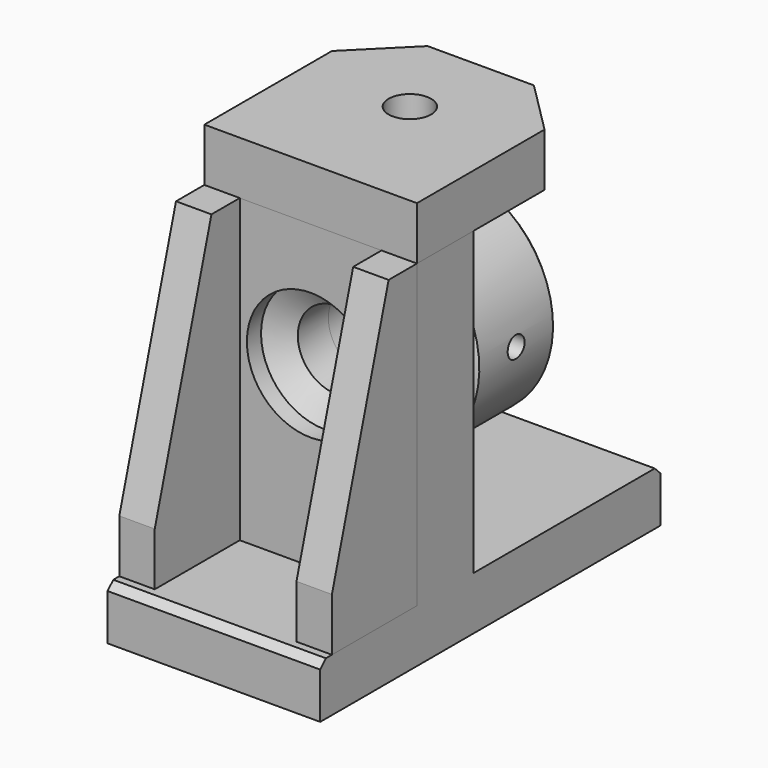
from build123d import *

# Parameters (mm, degrees)
F2_SIZE   = 2
F5_D      = 6
F5_DEPTH  = 12
F5_START  = 0.150377
F5_TIP    = 1.8025818571
F8_D      = 6
F8_DEPTH  = 12
F8_START  = 0.150377
F8_TIP    = 1.8025818571
F11_D     = 6
F11_DEPTH = 12
F11_START = 0.150377
F11_TIP   = 1.8025818571
F14_D     = 6
F14_DEPTH = 12
F14_START = 0.150377
F14_TIP   = 1.8025818571
F17_DEPTH = 15
F18_SIZE  = 15
F20_D     = 12
F20_DEPTH = 15
F20_TIP   = 3.6051637142
F22_W     = 60
F22_H     = 85
F23_DEPTH = 20
F25_DEPTH = 60
F27_D     = 36
F27_DEPTH = 5
F27_TIP   = 10.8154911425
F29_D     = 22
F29_DEPTH = 100
F29_TIP   = 6.6094668093
F30_SIZE  = 2
F32_DEPTH = 10
F34_DEPTH = 10


with BuildPart() as f1:
    # F0 (on Right) → F1 (revolve)
    with BuildSketch(Plane.YZ):
        Polygon((0, 30), (0, 11), (40, 11), (40, 18), (30, 18), (30, 30), align=None)
    revolve(axis=Axis((0, 0.3758966923, 0), (0, 1, 0)))

    # F2
    f2_edges = [f1.edges().sort_by_distance(p)[0] for p in [
        (0, 30, -30),
        (0, 0, -30),
        (0, 40, -18),
    ]]
    chamfer(f2_edges, length=F2_SIZE)

    # F5
    # its depths count from where the whole tool has entered the part; down to there all is cleared
    with Locations(Plane.YZ.offset(30).offset(-F5_START)):
        with Locations((15, 0)):
            Hole(F5_D / 2, depth=F5_DEPTH)
            with Locations((0, 0, -(F5_DEPTH + F5_TIP / 2))):  # 118° drill point
                Cone(0, F5_D / 2, F5_TIP, mode=Mode.SUBTRACT)

    # F8
    # its depths count from where the whole tool has entered the part; down to there all is cleared
    with Locations(Plane.XY.offset(30).offset(-F8_START)):
        with Locations((0, 15)):
            Hole(F8_D / 2, depth=F8_DEPTH)
            with Locations((0, 0, -(F8_DEPTH + F8_TIP / 2))):  # 118° drill point
                Cone(0, F8_D / 2, F8_TIP, mode=Mode.SUBTRACT)

    # F11
    # its depths count from where the whole tool has entered the part; down to there all is cleared
    with Locations(Plane(origin=(0, 0, -30), x_dir=(1, 0, 0), z_dir=(0, 0, -1)).offset(-F11_START)):
        with Locations((0, -15)):
            Hole(F11_D / 2, depth=F11_DEPTH)
            with Locations((0, 0, -(F11_DEPTH + F11_TIP / 2))):  # 118° drill point
                Cone(0, F11_D / 2, F11_TIP, mode=Mode.SUBTRACT)

    # F14
    # its depths count from where the whole tool has entered the part; down to there all is cleared
    with Locations(Plane(origin=(-30, 0, 0), x_dir=(0, 1, 0), z_dir=(-1, 0, 0)).offset(-F14_START)):
        with Locations((15, 0)):
            Hole(F14_D / 2, depth=F14_DEPTH)
            with Locations((0, 0, -(F14_DEPTH + F14_TIP / 2))):  # 118° drill point
                Cone(0, F14_D / 2, F14_TIP, mode=Mode.SUBTRACT)


with BuildPart() as f17:
    # F16 (on offset) → F17 (new body)
    with BuildSketch(Plane.XY.offset(35)):
        Polygon((30, -20), (30, 0), (30, 30), (30, 40), (-30, 40), (-30, 30), (-30, 0), (-30, -20), align=None)
    extrude(amount=F17_DEPTH)

    # F18
    f18_edges = [f17.edges().sort_by_distance(p)[0] for p in [
        (30, 40, 42.5),
        (-30, 40, 42.5),
    ]]
    chamfer(f18_edges, length=F18_SIZE)

    # F20
    with Locations(Plane.XY.offset(50)):
        with Locations((0, 15)):
            Hole(F20_D / 2, depth=F20_DEPTH)
            with Locations((0, 0, -(F20_DEPTH + F20_TIP / 2))):  # 118° drill point
                Cone(0, F20_D / 2, F20_TIP, mode=Mode.SUBTRACT)


with BuildPart() as f23:
    # F22 (on offset) → F23 (new body)
    with BuildSketch(Plane.XZ.offset(20)):
        with Locations((0, -7.5)):
            Rectangle(F22_W, F22_H)
    extrude(amount=-F23_DEPTH)

    # F24 (on offset) → F25 (join)
    with BuildSketch(Plane.YZ.offset(30)):
        Polygon((-20, -50), (-54.1288815439, -50), (-54.1288815439, -65), (65.8711184561, -65), (65.8711184561, -50), (0, -50), align=None)
    extrude(amount=-F25_DEPTH)

    # F27
    with Locations(Plane.XZ.offset(20)):
        with Locations((0, 0)):
            Hole(F27_D / 2, depth=F27_DEPTH)
            with Locations((0, 0, -(F27_DEPTH + F27_TIP / 2))):  # 118° drill point
                Cone(0, F27_D / 2, F27_TIP, mode=Mode.SUBTRACT)

    # F29
    with Locations(Plane.XZ.offset(20)):
        with Locations((0, 0)):
            Hole(F29_D / 2, depth=F29_DEPTH)
            with Locations((0, 0, -(F29_DEPTH + F29_TIP / 2))):  # 118° drill point
                Cone(0, F29_D / 2, F29_TIP, mode=Mode.SUBTRACT)

    # F30
    f30_edges = [f23.edges().sort_by_distance(p)[0] for p in [
        (0, -54.128882, -50),
        (0, 65.871118, -50),
    ]]
    chamfer(f30_edges, length=F30_SIZE)


with BuildPart() as f32:
    # F31 (on offset) → F32 (new body)
    with BuildSketch(Plane.YZ.offset(30)):
        Polygon((-20, -50), (-20, 0), (-20, 35), (-30, 35), (-50, -35), (-50, -50), align=None)
    extrude(amount=-F32_DEPTH)


with BuildPart() as f34:
    # F33 (on offset) → F34 (new body)
    with BuildSketch(Plane.YZ.offset(-30)):
        Polygon((-20, -50), (-20, 0), (-20, 35), (-20, 35.0201614201), (-30, 35.0201614201), (-50, -35), (-50, -50), align=None)
    extrude(amount=F34_DEPTH)


solid = Compound([f1.part, f17.part, f23.part, f32.part, f34.part])
